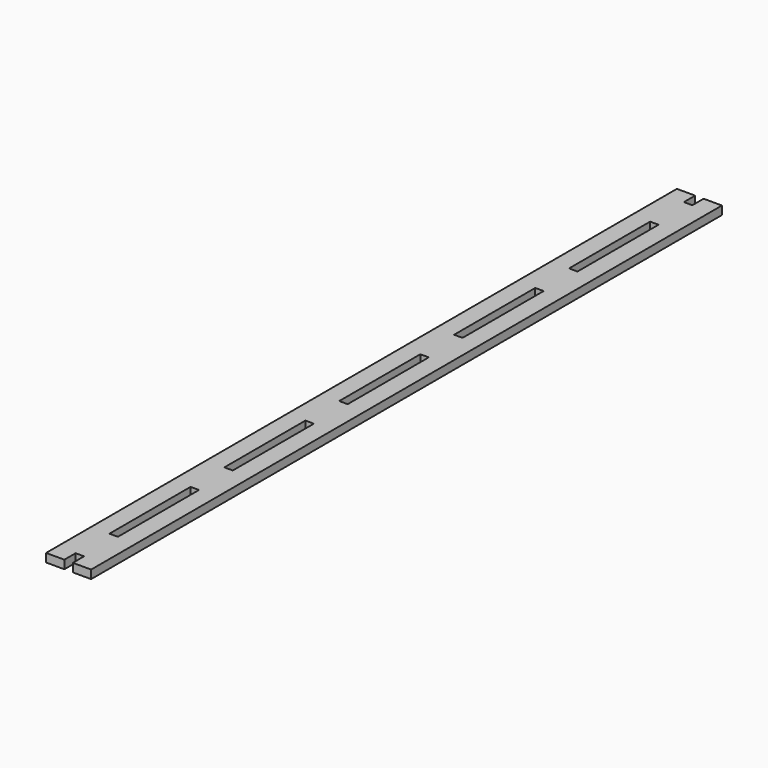
from build123d import *

# Parameters (mm, degrees)
F0_W     = 3
F0_H     = 36
F1_DEPTH = 3


with BuildPart() as f1:
    # F0 (on Top) → F1 (new body)
    with BuildSketch(Plane.XY):
        Polygon((-6.5, 5), (-6.5, 0), (-9.5, 0), (-9.5, 5), (-16, 5), (-16, 0), (-16, -270), (-16, -275), (-9.5, -275), (-9.5, -270), (-6.5, -270), (-6.5, -275), (0, -275), (0, -270), (0, 0), (0, 5), align=None)
        with Locations((-8, -237)):
            Rectangle(F0_W, F0_H, mode=Mode.SUBTRACT)
        with Locations((-8, -186)):
            Rectangle(F0_W, F0_H, mode=Mode.SUBTRACT)
        with Locations((-8, -135)):
            Rectangle(F0_W, F0_H, mode=Mode.SUBTRACT)
        with Locations((-8, -84)):
            Rectangle(F0_W, F0_H, mode=Mode.SUBTRACT)
        with Locations((-8, -33)):
            Rectangle(F0_W, F0_H, mode=Mode.SUBTRACT)
    extrude(amount=F1_DEPTH)


solid = f1.part
